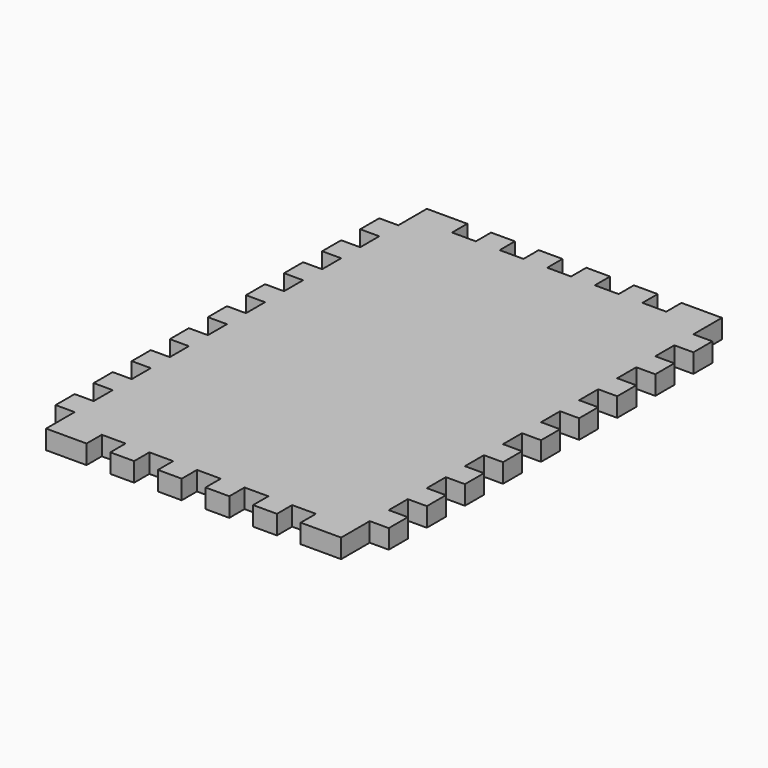
from build123d import *

# Parameters (mm, degrees)
F1_DEPTH = 10.16


with BuildPart() as f1:
    # F0 (on Top) → F1 (new body)
    with BuildSketch(Plane.XY):
        Polygon((31.75, 0), (10.16, 0), (10.16, -19.05), (0, -19.05), (0, -31.75), (10.16, -31.75), (10.16, -44.45), (0, -44.45), (0, -57.15), (10.16, -57.15), (10.16, -69.85), (0, -69.85), (0, -82.55), (10.16, -82.55), (10.16, -95.25), (0, -95.25), (0, -107.95), (10.16, -107.95), (10.16, -120.65), (0, -120.65), (0, -133.35), (10.16, -133.35), (10.16, -146.05), (0, -146.05), (0, -158.75), (10.16, -158.75), (10.16, -171.45), (0, -171.45), (0, -184.15), (10.16, -184.15), (10.16, -196.85), (0, -196.85), (0, -209.55), (10.16, -209.55), (10.16, -222.25), (0, -222.25), (0, -234.95), (10.16, -234.95), (10.16, -254), (31.75, -254), (31.75, -243.84), (44.45, -243.84), (44.45, -254), (57.15, -254), (57.15, -243.84), (69.85, -243.84), (69.85, -254), (82.55, -254), (82.55, -243.84), (95.25, -243.84), (95.25, -254), (107.95, -254), (107.95, -243.84), (120.65, -243.84), (120.65, -254), (133.35, -254), (133.35, -243.84), (146.05, -243.84), (146.05, -254), (167.64, -254), (167.64, -234.95), (177.8, -234.95), (177.8, -222.25), (167.64, -222.25), (167.64, -209.55), (177.8, -209.55), (177.8, -196.85), (167.64, -196.85), (167.64, -184.15), (177.8, -184.15), (177.8, -171.45), (167.64, -171.45), (167.64, -158.75), (177.8, -158.75), (177.8, -146.05), (167.64, -146.05), (167.64, -133.35), (177.8, -133.35), (177.8, -120.65), (167.64, -120.65), (167.64, -107.95), (177.8, -107.95), (177.8, -95.25), (167.64, -95.25), (167.64, -82.55), (177.8, -82.55), (177.8, -69.85), (167.64, -69.85), (167.64, -57.15), (177.8, -57.15), (177.8, -44.45), (167.64, -44.45), (167.64, -31.75), (177.8, -31.75), (177.8, -19.05), (167.64, -19.05), (167.64, 0), (146.05, 0), (146.05, -10.16), (133.35, -10.16), (133.35, 0), (120.65, 0), (120.65, -10.16), (107.95, -10.16), (107.95, 0), (95.25, 0), (95.25, -10.16), (82.55, -10.16), (82.55, 0), (69.85, 0), (69.85, -10.16), (57.15, -10.16), (57.15, 0), (44.45, 0), (44.45, -10.16), (31.75, -10.16), align=None)
    extrude(amount=F1_DEPTH)


solid = f1.part
